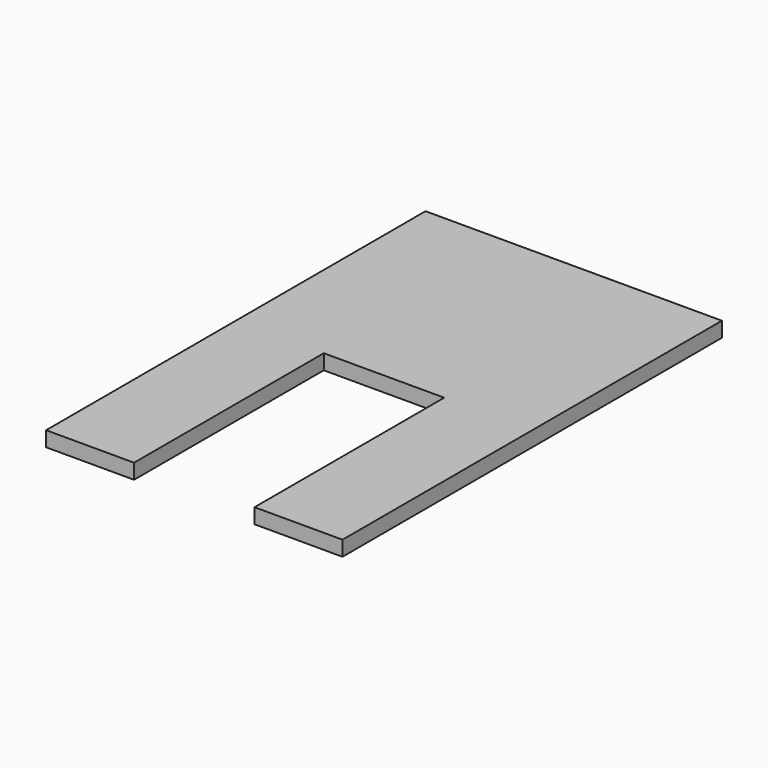
from build123d import *

# Parameters (mm, degrees)
F1_W     = 250
F1_H     = 400
F2_DEPTH = 12.7
F3_W     = 101.6
F3_H     = 200
F4_DEPTH = 25.4


with BuildPart() as f2:
    # F1 (on face) → F2 (new body)
    with BuildSketch(Plane.XY):
        with Locations((-7.36317, 50.835325)):
            Rectangle(F1_W, F1_H)
    extrude(amount=F2_DEPTH)

    # F3 (on face) → F4 (cut)
    with BuildSketch(Plane.XY.offset(12.7)):
        with Locations((-7.36317, -49.164675)):
            Rectangle(F3_W, F3_H)
    extrude(amount=-F4_DEPTH, mode=Mode.SUBTRACT)


solid = f2.part
